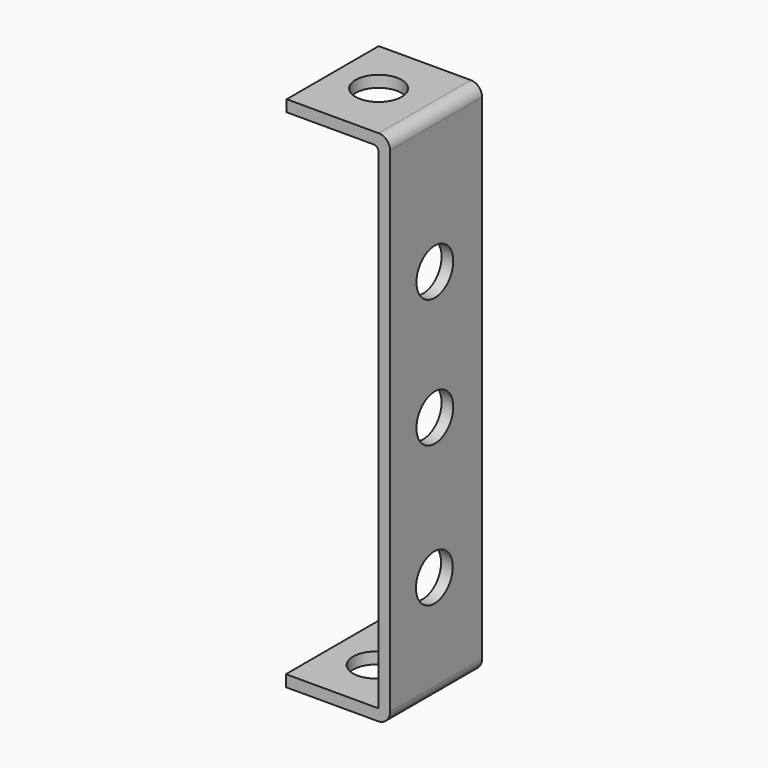
from build123d import *

# Parameters (mm, degrees)
CYLINDER030_R               = 2
CYLINDER030_DEPTH           = 10
CYLINDER030_PITCH_ANGLE     = 90
CYLINDER030_PLACEMENT_ANGLE = 7e-06
CYLINDER031_R               = 2
CYLINDER031_DEPTH           = 10
CYLINDER031_PITCH_ANGLE     = 90
CYLINDER031_PLACEMENT_ANGLE = 7e-06
CYLINDER026_R               = 2
CYLINDER026_DEPTH           = 2
CYLINDER026_ROLL_ANGLE      = -88.507054
CYLINDER026_PITCH_ANGLE     = -87.01751
CYLINDER026_PLACEMENT_ANGLE = -92.244015
CYLINDER028_R               = 2
CYLINDER028_DEPTH           = 2
CYLINDER028_PLACEMENT_ANGLE = 90.00001
CYLINDER029_R               = 2
CYLINDER029_DEPTH           = 2
CYLINDER029_ROLL_ANGLE      = 90
CYLINDER027_R               = 2
CYLINDER027_DEPTH           = 2
CYLINDER027_ROLL_ANGLE      = 90
CYLINDER025_R               = 2
CYLINDER025_DEPTH           = 2
CYLINDER025_ROLL_ANGLE      = -88.507054
CYLINDER025_PITCH_ANGLE     = -87.01751
CYLINDER025_PLACEMENT_ANGLE = -92.244015
PAD006_DEPTH                = 10
CUT022_PITCH_ANGLE          = 90
CUT022_PLACEMENT_ANGLE      = 90.000007


with BuildPart() as cylinder030:
    # Cylinder030 → Cylinder030 (new body)
    with BuildSketch(Plane.XY):
        Circle(CYLINDER030_R)
    extrude(amount=CYLINDER030_DEPTH)


with BuildPart() as cylinder030_1:
    # Cylinder030 pitch: moved
    add(cylinder030.part.rotate(Axis((0, 0, 0), (0, 1, 0)), CYLINDER030_PITCH_ANGLE))


with BuildPart() as cylinder030_2:
    # Cylinder030 placement: moved
    add(cylinder030_1.part.moved(Location((15.49, 3.9, 4.87))).rotate(Axis((15.49, 3.9, 4.87), (0, 0, 1)), CYLINDER030_PLACEMENT_ANGLE))


with BuildPart() as cylinder031:
    # Cylinder031 → Cylinder031 (new body)
    with BuildSketch(Plane.XY):
        Circle(CYLINDER031_R)
    extrude(amount=CYLINDER031_DEPTH)


with BuildPart() as cylinder031_1:
    # Cylinder031 pitch: moved
    add(cylinder031.part.rotate(Axis((0, 0, 0), (0, 1, 0)), CYLINDER031_PITCH_ANGLE))


with BuildPart() as cylinder031_2:
    # Cylinder031 placement: moved
    add(cylinder031_1.part.moved(Location((-28.4147, 3.9, 5.14))).rotate(Axis((-28.4147, 3.9, 5.14), (0, 0, 1)), CYLINDER031_PLACEMENT_ANGLE))


with BuildPart() as cylinder026:
    # Cylinder026 → Cylinder026 (new body)
    with BuildSketch(Plane.XY):
        Circle(CYLINDER026_R)
    extrude(amount=CYLINDER026_DEPTH)


with BuildPart() as cylinder026_1:
    # Cylinder026 roll: moved
    add(cylinder026.part.rotate(Axis((0, 0, 0), (1, 0, 0)), CYLINDER026_ROLL_ANGLE))


with BuildPart() as cylinder026_2:
    # Cylinder026 pitch: moved
    add(cylinder026_1.part.rotate(Axis((0, 0, 0), (0, 1, 0)), CYLINDER026_PITCH_ANGLE))


with BuildPart() as cylinder026_3:
    # Cylinder026 placement: moved
    add(cylinder026_2.part.moved(Location((-26, 5.29, 4.9))).rotate(Axis((-26, 5.29, 4.9), (0, 0, 1)), CYLINDER026_PLACEMENT_ANGLE))


with BuildPart() as cylinder028:
    # Cylinder028 → Cylinder028 (new body)
    with BuildSketch(Plane.XY):
        Circle(CYLINDER028_R)
    extrude(amount=CYLINDER028_DEPTH)


with BuildPart() as cylinder028_1:
    # Cylinder028 placement: moved
    add(cylinder028.part.moved(Location((-11.1555, 0, 4.86401))).rotate(Axis((-11.1555, 0, 4.86401), (1, 0, 0)), CYLINDER028_PLACEMENT_ANGLE))


with BuildPart() as cylinder029:
    # Cylinder029 → Cylinder029 (new body)
    with BuildSketch(Plane.XY):
        Circle(CYLINDER029_R)
    extrude(amount=CYLINDER029_DEPTH)


with BuildPart() as cylinder029_1:
    # Cylinder029 roll: moved
    add(cylinder029.part.rotate(Axis((0, 0, 0), (1, 0, 0)), CYLINDER029_ROLL_ANGLE))


with BuildPart() as cylinder029_2:
    # Cylinder029 placement: moved
    add(cylinder029_1.part.moved(Location((0, 0, 4.86401))))


with BuildPart() as cylinder027:
    # Cylinder027 → Cylinder027 (new body)
    with BuildSketch(Plane.XY):
        Circle(CYLINDER027_R)
    extrude(amount=CYLINDER027_DEPTH)


with BuildPart() as cylinder027_1:
    # Cylinder027 roll: moved
    add(cylinder027.part.rotate(Axis((0, 0, 0), (1, 0, 0)), CYLINDER027_ROLL_ANGLE))


with BuildPart() as cylinder027_2:
    # Cylinder027 placement: moved
    add(cylinder027_1.part.moved(Location((12.2129, 0, 4.81114))))


with BuildPart() as cylinder025:
    # Cylinder025 → Cylinder025 (new body)
    with BuildSketch(Plane.XY):
        Circle(CYLINDER025_R)
    extrude(amount=CYLINDER025_DEPTH)


with BuildPart() as cylinder025_1:
    # Cylinder025 roll: moved
    add(cylinder025.part.rotate(Axis((0, 0, 0), (1, 0, 0)), CYLINDER025_ROLL_ANGLE))


with BuildPart() as cylinder025_2:
    # Cylinder025 pitch: moved
    add(cylinder025_1.part.rotate(Axis((0, 0, 0), (0, 1, 0)), CYLINDER025_PITCH_ANGLE))


with BuildPart() as cylinder025_3:
    # Cylinder025 placement: moved
    add(cylinder025_2.part.moved(Location((25, 5.38, 4.9))).rotate(Axis((25, 5.38, 4.9), (0, 0, 1)), CYLINDER025_PLACEMENT_ANGLE))


with BuildPart() as cut022:
    # Sketch007 → Pad006 (new body)
    with BuildSketch(Plane.XY):
        with BuildLine():
            Line((20.546084, -1.208272), (-22.415471, -1.208272))
            ThreePointArc((-23.400725, -0.223018), (-23.112151, -0.919698), (-22.415471, -1.208272))
            Line((-23.400725, 7.776982), (-23.400725, -0.223018))
            Line((-23.400725, 7.776982), (-22.400725, 7.776982))
            Line((-22.400725, 7.776982), (-22.400725, 0.197829))
            ThreePointArc((-22.400725, 0.197829), (-22.286166, -0.07874), (-22.009596, -0.193299))
            Line((-22.009596, -0.193299), (20.555186, -0.193299))
            ThreePointArc((20.555186, -0.193299), (20.586324, -0.180401), (20.599222, -0.149263))
            Line((20.599222, 7.844865), (20.599222, -0.149263))
            Line((21.599222, 7.844865), (20.599222, 7.844865))
            Line((21.599222, 7.844865), (21.599222, -0.155135))
            ThreePointArc((20.546084, -1.208272), (21.290765, -0.899815), (21.599222, -0.155135))
        make_face()
    extrude(amount=PAD006_DEPTH)

    # Cut005: cut Cylinder025
    add(cylinder025_3.part, mode=Mode.SUBTRACT)

    # Cut006: cut Cylinder027
    add(cylinder027_2.part, mode=Mode.SUBTRACT)

    # Cut007: cut Cylinder029
    add(cylinder029_2.part, mode=Mode.SUBTRACT)

    # Cut008: cut Cylinder028
    add(cylinder028_1.part, mode=Mode.SUBTRACT)

    # Cut009: cut Cylinder026
    add(cylinder026_3.part, mode=Mode.SUBTRACT)

    # Cut018: cut Cylinder031
    add(cylinder031_2.part, mode=Mode.SUBTRACT)

    # Cut022: cut Cylinder030
    add(cylinder030_2.part, mode=Mode.SUBTRACT)


with BuildPart() as cut022_1:
    # Cut022 pitch: moved
    add(cut022.part.rotate(Axis((0, 0, 0), (0, 1, 0)), CUT022_PITCH_ANGLE))


with BuildPart() as cut022_2:
    # Cut022 placement: moved
    add(cut022_1.part.moved(Location((-428.168098, 12.239449, -99.07584))).rotate(Axis((-428.168098, 12.239449, -99.07584), (0, 0, 1)), CUT022_PLACEMENT_ANGLE))


solid = cut022_2.part
